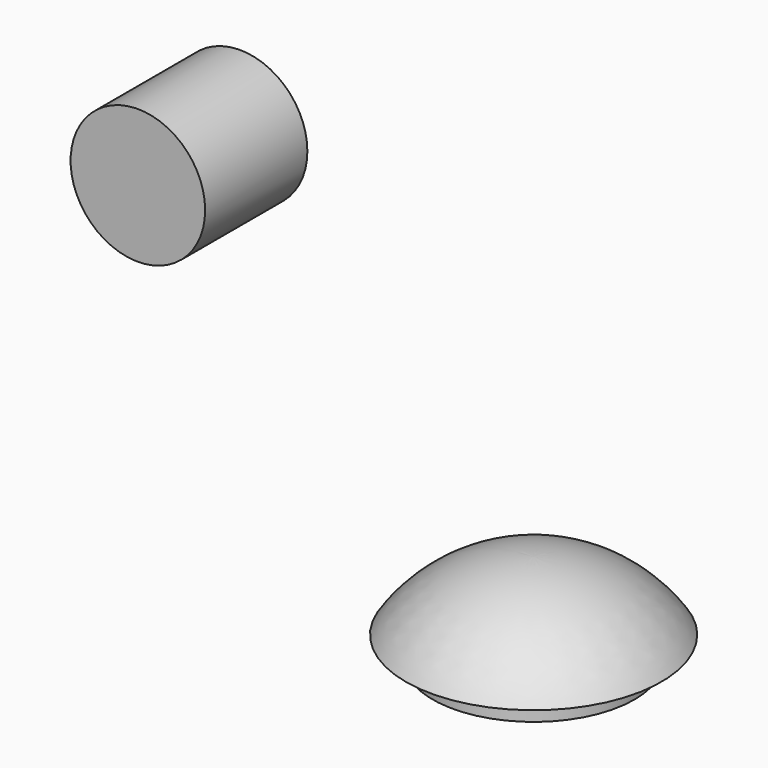
from build123d import *

# Parameters (mm, degrees)
F0_R     = 19.75
F1_DEPTH = 4.75
F4_R     = 13.158595
F5_DEPTH = 25


with BuildPart() as f1:
    # F0 (on Top) → F1 (new body)
    with BuildSketch(Plane.XY):
        Circle(F0_R)
    extrude(amount=-F1_DEPTH)

    # F2 (on Front) → F3 (revolve)
    with BuildSketch(Plane.XZ):
        with BuildLine():
            Line((-25, 0), (0, 0))
            Line((0, 0), (0, 13.416876))
            ThreePointArc((0, 13.416876), (-14.186372, 9.850696), (-25, 0))
        make_face()
    revolve(axis=Axis((0, 0, 6.708438), (0, 0, -1)))


with BuildPart() as f5:
    # F4 (on Front) → F5 (new body)
    with BuildSketch(Plane.XZ):
        with Locations((-57.415754, 68.864129)):
            Circle(F4_R)
    extrude(amount=F5_DEPTH)


solid = Compound([f1.part, f5.part])
